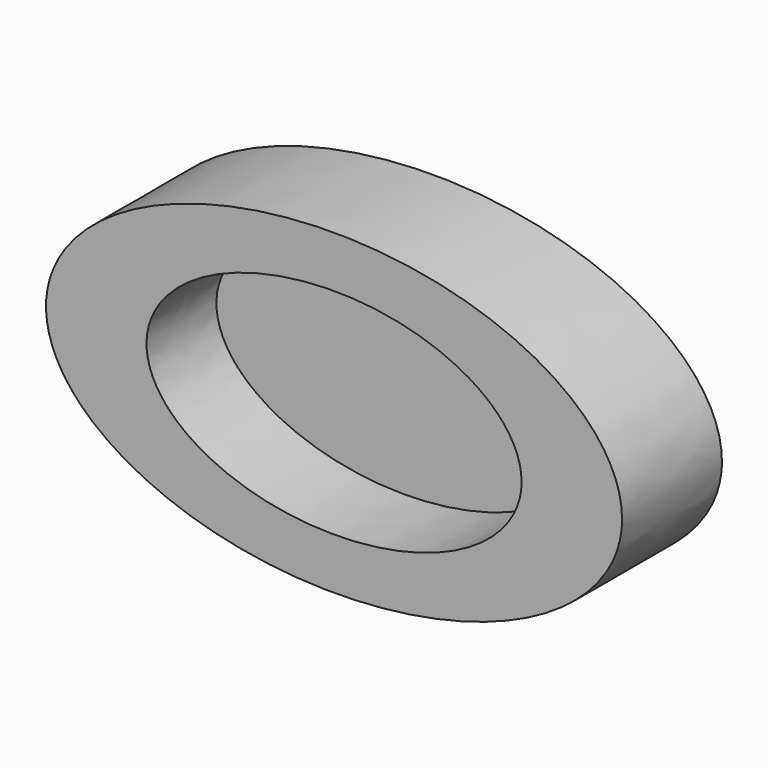
from build123d import *

# Parameters (mm, degrees)
F1_DEPTH = 25.4
F2_DEPTH = 7.62


with BuildPart() as f1:
    # F0 (on Front) → F1 (new body)
    with BuildSketch(Plane.XZ):
        with BuildLine():
            add(Edge.make_bspline(
                [(58.611333, 0), (58.611333, 55.891406), (-29.305667, 27.945703), (-117.222667, 0), (-29.305667, -27.945703), (58.611333, -55.891406), (58.611333, 0)],
                knots=[0, 0, 0, 2.094395, 2.094395, 4.18879, 4.18879, 6.283185, 6.283185, 6.283185], degree=2, weights=[1, 0.5, 1, 0.5, 1, 0.5, 1]))
        make_face()
        with BuildLine():
            add(Edge.make_bspline(
                [(38.158417, 0), (38.158417, 37.805172), (-19.079208, 18.902586), (-76.316833, 0), (-19.079208, -18.902586), (38.158417, -37.805172), (38.158417, 0)],
                knots=[0, 0, 0, 2.094395, 2.094395, 4.18879, 4.18879, 6.283185, 6.283185, 6.283185], degree=2, weights=[1, 0.5, 1, 0.5, 1, 0.5, 1]))
        make_face(mode=Mode.SUBTRACT)
    extrude(amount=F1_DEPTH)

    # F0 (on Front) → F2 (join)
    with BuildSketch(Plane.XZ):
        with BuildLine():
            add(Edge.make_bspline(
                [(38.158417, 0), (38.158417, 37.805172), (-19.079208, 18.902586), (-76.316833, 0), (-19.079208, -18.902586), (38.158417, -37.805172), (38.158417, 0)],
                knots=[0, 0, 0, 2.094395, 2.094395, 4.18879, 4.18879, 6.283185, 6.283185, 6.283185], degree=2, weights=[1, 0.5, 1, 0.5, 1, 0.5, 1]))
        make_face()
    extrude(amount=F2_DEPTH)


solid = f1.part
